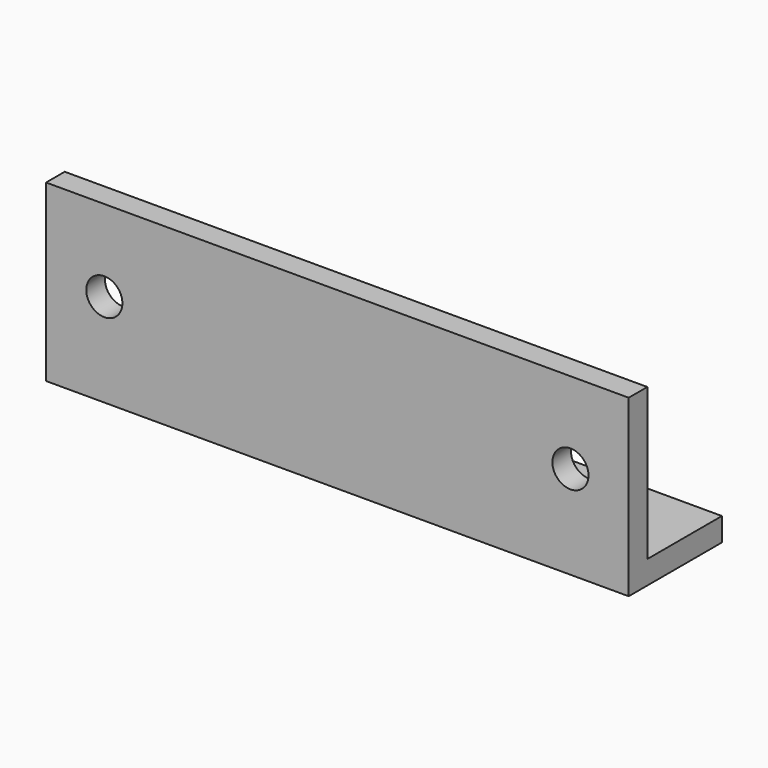
from build123d import *

# Parameters (mm, degrees)
PAD042_DEPTH    = 50
SKETCH246_R     = 1.55
POCKET204_DEPTH = 15.001
SKETCH247_R     = 1.55
POCKET205_DEPTH = 10.001


with BuildPart() as part:
    # Sketch245 → Pad042 (new body)
    with BuildSketch(Plane.YZ):
        Polygon((0, 0), (0, 15), (2, 15), (2, 2), (10, 2), (10, 0), align=None)
    extrude(amount=PAD042_DEPTH)

    # Sketch246 (on Face6 of Pad042) → Pocket204 (cut, through all)
    with BuildSketch(Plane.YX):
        with Locations((5, 38)):
            Circle(SKETCH246_R)
        with Locations((5, 12)):
            Circle(SKETCH246_R)
    extrude(amount=-POCKET204_DEPTH, mode=Mode.SUBTRACT)

    # Sketch247 (on Face1 of Pocket204) → Pocket205 (cut, through all)
    with BuildSketch(Plane(origin=(0, 0, 0), x_dir=(0, 0, -1), z_dir=(0, -1, 0))):
        with Locations((-8, 45)):
            Circle(SKETCH247_R)
        with Locations((-8, 5)):
            Circle(SKETCH247_R)
    extrude(amount=-POCKET205_DEPTH, mode=Mode.SUBTRACT)


with BuildPart() as part_1:
    # Body043 placement: moved
    add(part.part.moved(Location((-60, -10, 18))))


solid = part_1.part
